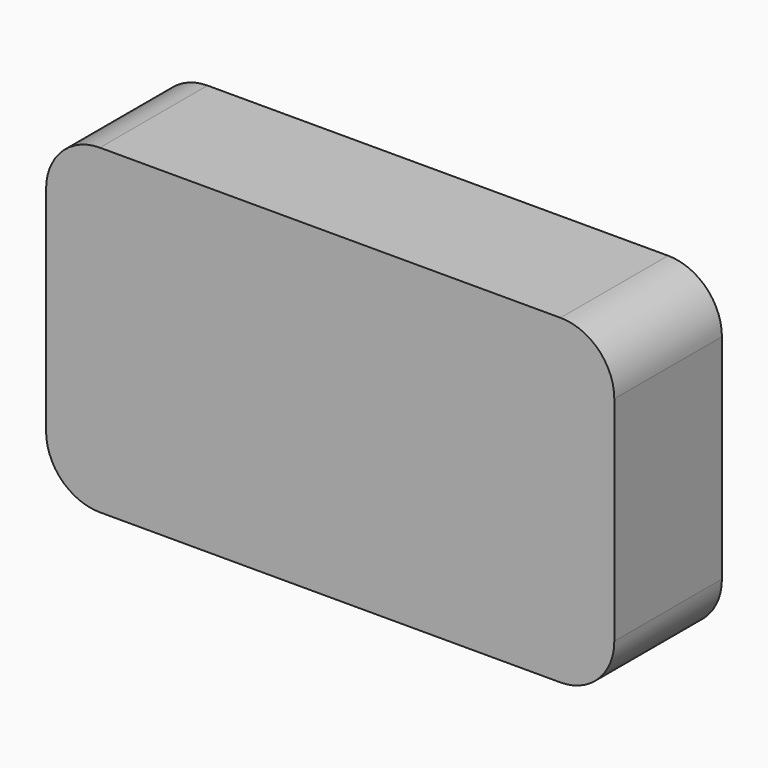
from build123d import *

# Parameters (mm, degrees)
F1_DEPTH = 25
F3_DEPTH = 13.5


with BuildPart() as f1:
    # F0 (on Front) → F1 (new body)
    with BuildSketch(Plane.XZ):
        with BuildLine():
            ThreePointArc((-52.798297, -19.829547), (-49.869365, -26.900615), (-42.798297, -29.829547))
            Line((-42.798297, -29.829547), (42.798297, -29.829547))
            ThreePointArc((42.798297, -29.829547), (49.869365, -26.900615), (52.798297, -19.829547))
            Line((52.798297, -19.829547), (52.798297, 19.829547))
            ThreePointArc((52.798297, 19.829547), (49.869365, 26.900615), (42.798297, 29.829547))
            Line((42.798297, 29.829547), (-42.798297, 29.829547))
            ThreePointArc((-42.798297, 29.829547), (-49.869365, 26.900615), (-52.798297, 19.829547))
            Line((-52.798297, 19.829547), (-52.798297, -19.829547))
        make_face()
    extrude(amount=F1_DEPTH)

    # F2 (on face) → F3 (cut)
    with BuildSketch(Plane(origin=(0, 0, 0), x_dir=(-1, 0, 0), z_dir=(0, 1, 0))):
        with BuildLine():
            ThreePointArc((-39.375003, -9.389205), (-36.446071, -16.460272), (-29.375003, -19.389205))
            Line((-29.375003, -19.389205), (29.375003, -19.389205))
            ThreePointArc((29.375003, -19.389205), (36.446071, -16.460272), (39.375003, -9.389205))
            Line((39.375003, -9.389205), (39.375003, 9.389205))
            ThreePointArc((39.375003, 9.389205), (36.446071, 16.460272), (29.375003, 19.389205))
            Line((29.375003, 19.389205), (-29.375003, 19.389205))
            ThreePointArc((-29.375003, 19.389205), (-36.446071, 16.460272), (-39.375003, 9.389205))
            Line((-39.375003, 9.389205), (-39.375003, -9.389205))
        make_face()
    extrude(amount=-F3_DEPTH, mode=Mode.SUBTRACT)


solid = f1.part
